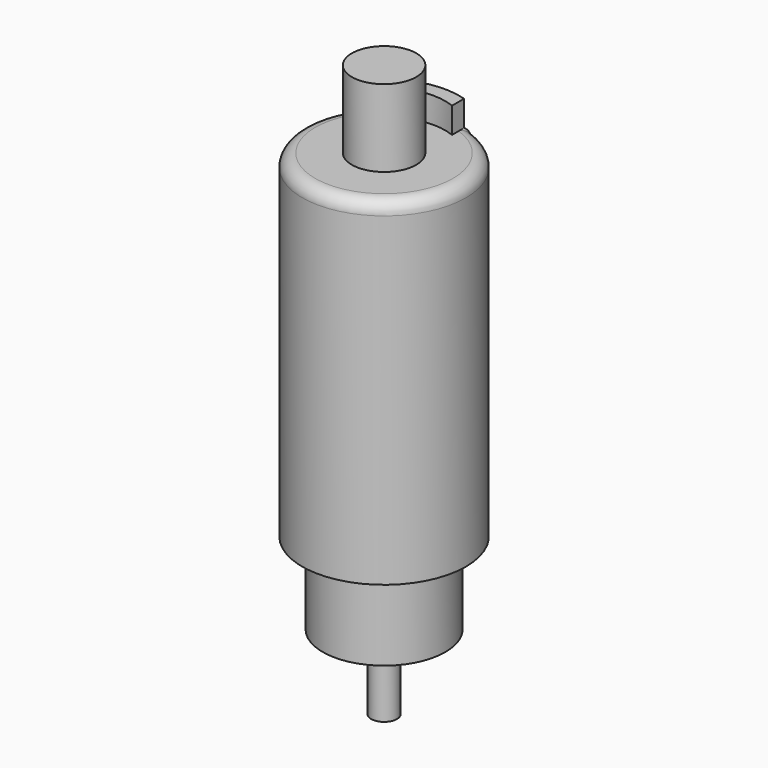
from build123d import *

# Parameters (mm, degrees)
SKETCH_R     = 4.76
PAD_DEPTH    = 6.35
SKETCH001_R  = 6.35
PAD001_DEPTH = 26.2
SKETCH002_R  = 1
PAD002_DEPTH = 5.8
SKETCH003_R  = 2.5
PAD003_DEPTH = 6
PAD004_DEPTH = 2
FILLET_R     = 1


with BuildPart() as part:
    # Sketch → Pad (new body)
    with BuildSketch(Plane.XY):
        Circle(SKETCH_R)
    extrude(amount=PAD_DEPTH)

    # Sketch001 (on Face3 of Pad) → Pad001 (join)
    with BuildSketch(Plane.XY.offset(6.35)):
        Circle(SKETCH001_R)
    extrude(amount=PAD001_DEPTH)

    # Sketch002 (on Face5 of Pad001) → Pad002 (join)
    with BuildSketch(Plane(origin=(0, 0, 0), x_dir=(1, 0, 0), z_dir=(0, 0, -1))):
        Circle(SKETCH002_R)
    extrude(amount=PAD002_DEPTH)

    # Sketch003 (on Face3 of Pad002) → Pad003 (join)
    with BuildSketch(Plane.XY.offset(32.55)):
        Circle(SKETCH003_R)
    extrude(amount=PAD003_DEPTH)

    # Sketch004 (on Face3 of Pad003) → Pad004 (join)
    with BuildSketch(Plane.XY.offset(32.55)):
        with BuildLine():
            ThreePointArc((1.736759, 5.586248), (0, 5.85), (-1.736759, 5.586248))
            Line((-1.736759, 4.421105), (-1.736759, 5.586248))
            ThreePointArc((1.736759, 4.421105), (0, 4.75), (-1.736759, 4.421105))
            Line((1.736759, 5.586248), (1.736759, 4.421105))
        make_face()
    extrude(amount=PAD004_DEPTH)

    # Fillet
    fillet_edges = [part.edges().sort_by_distance(p)[0] for p in [
        (-6.35, 0, 32.55),
    ]]
    fillet(fillet_edges, radius=FILLET_R)


solid = part.part
